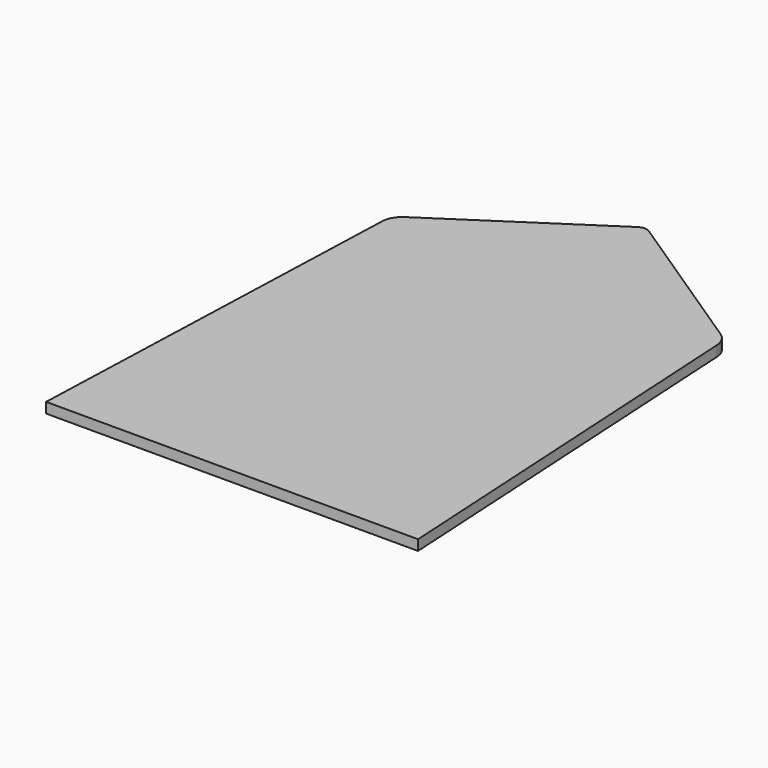
from build123d import *

# Parameters (mm, degrees)
F1_DEPTH = 3.175


with BuildPart() as f1:
    # F0 (on Top) → F1 (new body)
    with BuildSketch(Plane.XY):
        with BuildLine():
            ThreePointArc((11.069727, 121.659172), (9.320386, 122.187138), (7.569753, 121.663468))
            Line((7.569753, 121.663468), (-39.294483, 90.788597))
            ThreePointArc((-39.294483, 90.788597), (-41.337575, 88.595438), (-42.147077, 85.709458))
            Line((-42.147077, 85.709458), (-46.502039, -37.93602))
            Line((-46.502039, -37.93602), (10.647961, -37.93602))
            Line((10.647961, -37.93602), (67.797961, -37.93602))
            Line((67.797961, -37.93602), (60.771374, 85.682616))
            ThreePointArc((60.771374, 85.682616), (59.938193, 88.484536), (57.938084, 90.616322))
            Line((57.938084, 90.616322), (11.069727, 121.659172))
        make_face()
    extrude(amount=F1_DEPTH)


solid = f1.part
